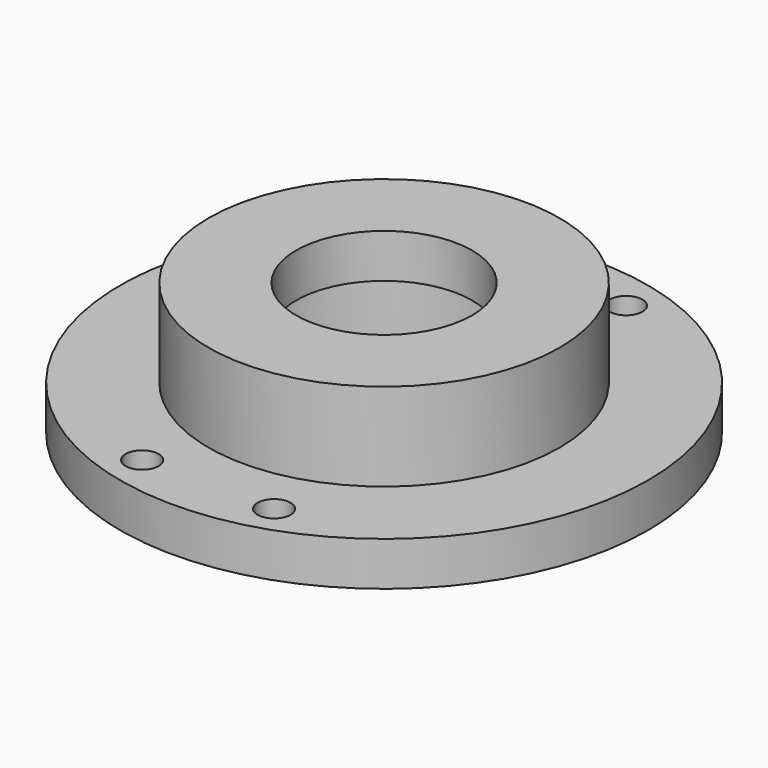
from build123d import *

# Parameters (mm, degrees)
F0_R     = 38.1
F0_R_2   = 2.37453
F0_R_3   = 25.404017
F1_DEPTH = 6.35
F2_R     = 25.338119
F3_DEPTH = 12.7
F4_R     = 19.05
F5_DEPTH = 12.7
F6_R     = 12.7
F7_DEPTH = 25.4


with BuildPart() as f1:
    # F0 (on Top) → F1 (new body)
    with BuildSketch(Plane.XY):
        Circle(F0_R)
        with Locations((-9.525, -31.75)):
            Circle(F0_R_2, mode=Mode.SUBTRACT)
        with Locations((9.525, -31.75)):
            Circle(F0_R_2, mode=Mode.SUBTRACT)
        with Locations((-9.525, 31.75)):
            Circle(F0_R_2, mode=Mode.SUBTRACT)
        Circle(F0_R_3, mode=Mode.SUBTRACT)
        with Locations((9.525, 31.75)):
            Circle(F0_R_2, mode=Mode.SUBTRACT)
        Circle(F0_R_3)
    extrude(amount=F1_DEPTH)

    # F2 (on face) → F3 (join)
    with BuildSketch(Plane.XY.offset(6.35)):
        Circle(F2_R)
    extrude(amount=F3_DEPTH)

    # F4 (on face) → F5 (cut)
    with BuildSketch(Plane(origin=(0, 0, 0), x_dir=(1, 0, 0), z_dir=(0, 0, -1))):
        Circle(F4_R)
    extrude(amount=-F5_DEPTH, mode=Mode.SUBTRACT)

    # F6 (on face) → F7 (cut)
    with BuildSketch(Plane.XY.offset(19.05)):
        Circle(F6_R)
    extrude(amount=-F7_DEPTH, mode=Mode.SUBTRACT)


solid = f1.part
